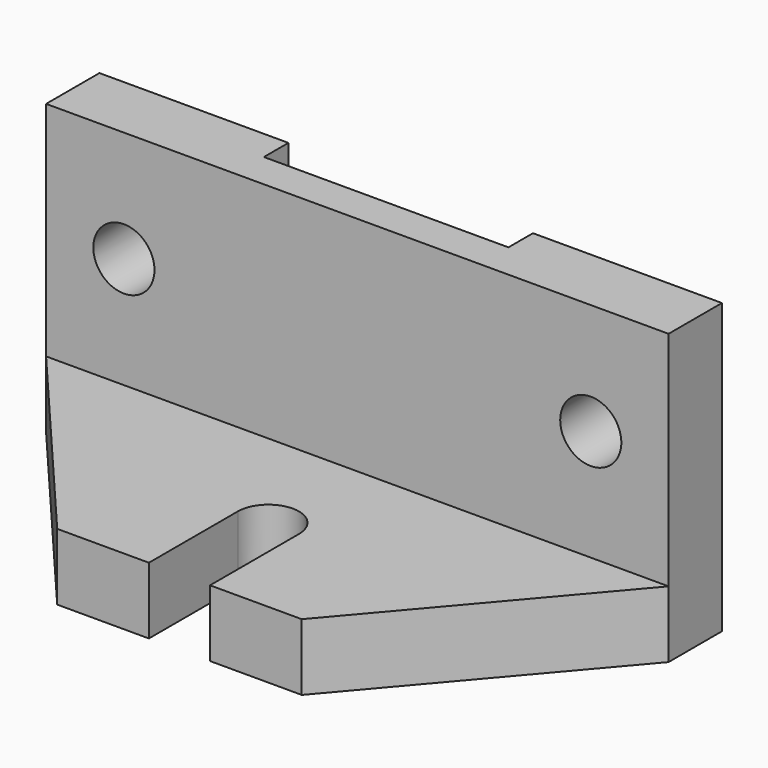
from build123d import *

# Parameters (mm, degrees)
SKETCH_R        = 5.75
SKETCH_R_2      = 1.75
PAD_DEPTH       = 26
SKETCH001_W     = 22
SKETCH001_H     = 6
PAD001_DEPTH    = 20
POCKET_DEPTH    = 6.001
PAD002_DEPTH    = 26
PAD002_FACE13_W = 20
PAD002_FACE13_H = 20
POCKET001_DEPTH = 144.217351
SKETCH004_R     = 2.75
POCKET002_DEPTH = 153.217351
POCKET003_DEPTH = 14
PAD003_DEPTH    = 6


with BuildPart() as part:
    # Sketch → Pad (new body)
    with BuildSketch(Plane.XY):
        with BuildLine():
            ThreePointArc((11, 0), (0, 11), (-11, 0))
            Line((-11, 0), (-11, -12))
            Line((11, -12), (-11, -12))
            Line((11, -12), (11, 0))
        make_face()
        Circle(SKETCH_R, mode=Mode.SUBTRACT)
        with Locations((-5.656854, 5.656854)):
            Circle(SKETCH_R_2, mode=Mode.SUBTRACT)
        with Locations((5.656854, -5.656854)):
            Circle(SKETCH_R_2, mode=Mode.SUBTRACT)
        with Locations((-5.656854, -5.656854)):
            Circle(SKETCH_R_2, mode=Mode.SUBTRACT)
        with Locations((5.656854, 5.656854)):
            Circle(SKETCH_R_2, mode=Mode.SUBTRACT)
    extrude(amount=PAD_DEPTH)

    # Sketch001 (on Face4 of Pad) → Pad001 (join)
    with BuildSketch(Plane.XZ.offset(12)):
        with Locations((0, 3)):
            Rectangle(SKETCH001_W, SKETCH001_H)
    extrude(amount=PAD001_DEPTH)

    # Sketch002 (on Face4 of Pad001) → Pocket (cut, through all)
    with BuildSketch(Plane.XY.offset(6)):
        with BuildLine():
            ThreePointArc((2.75, -22), (0, -19.25), (-2.75, -22))
            Line((-2.75, -22), (-2.75, -32))
            Line((-2.75, -32), (2.75, -32))
            Line((2.75, -22), (2.75, -32))
        make_face()
    extrude(amount=-POCKET_DEPTH, mode=Mode.SUBTRACT)

    # Sketch003 → Pad002 (join)
    with BuildSketch(Plane.XY):
        Polygon((11, -6), (28, -6), (28, -12), (11, -32), align=None)
    pad002 = extrude(amount=PAD002_DEPTH)

    # Pad002 Face13 → Pocket001 (cut, through all)
    with BuildSketch(Plane(origin=(11, -22, 16), x_dir=(0, 1, 0), z_dir=(-1, 0, 0))):
        Rectangle(PAD002_FACE13_W, PAD002_FACE13_H)
    pocket001 = extrude(amount=-POCKET001_DEPTH, mode=Mode.SUBTRACT)

    # Sketch004 (on Face6 of Pocket001) → Pocket002 (cut, through all)
    with BuildSketch(Plane(origin=(0, -6, 0), x_dir=(-1, 0, 0), z_dir=(0, 1, 0))):
        with Locations((-21, 16)):
            Circle(SKETCH004_R)
    pocket002 = extrude(amount=-POCKET002_DEPTH, mode=Mode.SUBTRACT)

    # Mirrored: Pad002, Pocket001, Pocket002 across Sketch003 V_Axis
    add(pad002.mirror(Plane(origin=(0, 0, 0), x_dir=(0, 0, 1), z_dir=(1, 0, 0))))
    add(pocket001.mirror(Plane(origin=(0, 0, 0), x_dir=(0, 0, 1), z_dir=(1, 0, 0))), mode=Mode.SUBTRACT)
    add(pocket002.mirror(Plane(origin=(0, 0, 0), x_dir=(0, 0, 1), z_dir=(1, 0, 0))), mode=Mode.SUBTRACT)

    # Sketch005 (on Face23 of Mirrored) → Pocket003 (cut)
    with BuildSketch(Plane.XY.offset(26)):
        with BuildLine():
            Line((-11, 0), (-11, -8.756854))
            Line((-11, -8.756854), (11, -8.756854))
            Line((11, -8.756854), (11, 0))
            ThreePointArc((11, 0), (0, 11), (-11, 0))
        make_face()
    extrude(amount=-POCKET003_DEPTH, mode=Mode.SUBTRACT)

    # Sketch006 (on Face2 of Pocket003) → Pad003 (join)
    with BuildSketch(Plane(origin=(0, 0, 0), x_dir=(1, 0, 0), z_dir=(0, 0, -1))):
        Polygon((-28, 6), (-11, 0), (-11, 6), align=None)
    pad003 = extrude(amount=-PAD003_DEPTH)

    # Mirrored001: Pad003 across Sketch006 V_Axis
    add(pad003.mirror(Plane(origin=(0, 0, 0), x_dir=(0, 0, -1), z_dir=(1, 0, 0))))


solid = part.part
